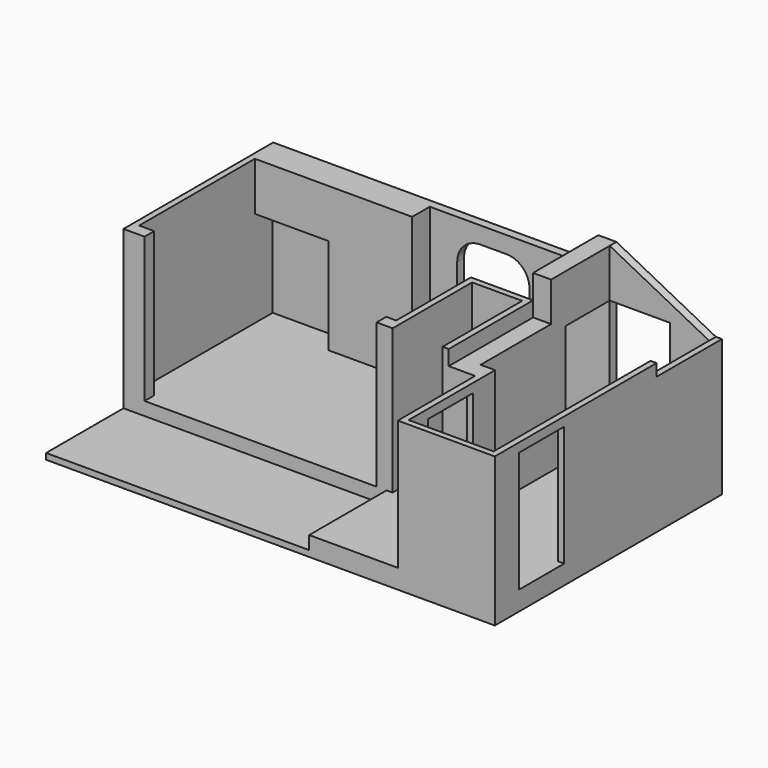
from build123d import *

# Parameters (mm, degrees)
F0_W      = 7445
F0_H      = 4710
F1_DEPTH  = 2720
F3_DEPTH  = 2400
F4_W      = 1220
F4_H      = 1595
F5_DEPTH  = 370
F6_W      = 1200
F6_H      = 2120
F6_W_2    = 1000
F6_H_2    = 2000
F7_DEPTH  = 140
F8_R      = 380
F9_W      = 830
F9_H      = 1650
F10_DEPTH = 2400
F11_W     = 940
F11_H     = 2000
F12_DEPTH = 100
F13_DEPTH = 1510
F14_W     = 915
F14_H     = 400
F15_DEPTH = 300
F17_DEPTH = 400
F18_W     = 3355
F18_H     = 250
F19_DEPTH = 2049
F21_DEPTH = 1355
F22_W     = 4365
F22_H     = 1605
F23_DEPTH = 220


with BuildPart() as f1:
    # F0 (on Top) → F1 (new body)
    with BuildSketch(Plane.XY):
        with Locations((2142.52072, 1425.795413)):
            Rectangle(F0_W, F0_H)
    extrude(amount=F1_DEPTH)

    # F2 (on face) → F3 (cut)
    with BuildSketch(Plane.XY.offset(2720)):
        Polygon((1130.02072, 3275.795413), (-1479.97928, 3275.795413), (-1479.97928, 875.795413), (-1229.97928, 875.795413), (-1229.97928, 675.795413), (2620.02072, 675.795413), (2620.02072, 875.795413), (2785.02072, 875.795413), (2785.02072, 2425.795413), (3815.02072, 2425.795413), (3815.02072, 2725.795413), (4115.02072, 2725.795413), (4115.02072, 963.588339), (4355.02072, 963.588339), (4355.02072, -829.204587), (5765.02072, -829.204587), (5765.02072, -429.204587), (5765.02072, 510.795413), (5765.02072, 3640.795413), (5115.02072, 3640.795413), (4115.02072, 3640.795413), (2785.02072, 3640.795413), (1585.02072, 3640.795413), (1130.02072, 3640.795413), align=None)
    extrude(amount=-F3_DEPTH, mode=Mode.SUBTRACT)

    # F4 (on face) → F5 (cut)
    with BuildSketch(Plane.XZ.offset(-3275.795413)):
        with Locations((-869.97928, 1117.5)):
            Rectangle(F4_W, F4_H)
    extrude(amount=-F5_DEPTH, mode=Mode.SUBTRACT)

    # F6 (on face) → F7 (cut, through all)
    with BuildSketch(Plane.XZ.offset(-3640.795413)):
        with Locations((2185.02072, 1380)):
            Rectangle(F6_W, F6_H)
        with Locations((4615.02072, 1320)):
            Rectangle(F6_W_2, F6_H_2)
    extrude(amount=-F7_DEPTH, mode=Mode.SUBTRACT)

    # F8
    f8_edges = [f1.edges().sort_by_distance(p)[0] for p in [
        (1585.02072, 3710.795413, 2440),
        (2785.02072, 3710.795413, 2440),
    ]]
    fillet(f8_edges, radius=F8_R)

    # F9 (on face) → F10 (cut)
    with BuildSketch(Plane.XY.offset(2720)):
        Polygon((2620.02072, 675.795413), (-1229.97928, 675.795413), (-1579.97928, 675.795413), (-1579.97928, -929.204587), (4255.02072, -929.204587), (4255.02072, 675.795413), (3715.02072, 675.795413), (2885.02072, 675.795413), align=None)
        with Locations((3300.02072, 1500.795413)):
            Rectangle(F9_W, F9_H)
    extrude(amount=-F10_DEPTH, mode=Mode.SUBTRACT)

    # F11 (on face) → F12 (cut, through all)
    with BuildSketch(Plane(origin=(5765.02072, 0, 0), x_dir=(0, -1, 0), z_dir=(-1, 0, 0))):
        with Locations((-40.795413, 1320)):
            Rectangle(F11_W, F11_H)
    extrude(amount=-F12_DEPTH, mode=Mode.SUBTRACT)

    # F11 (on face) → F13 (cut, through all)
    with BuildSketch(Plane(origin=(5765.02072, 0, 0), x_dir=(0, -1, 0), z_dir=(-1, 0, 0))):
        with Locations((-40.795413, 1320)):
            Rectangle(F11_W, F11_H)
    extrude(amount=F13_DEPTH, mode=Mode.SUBTRACT)

    # F14 (on face) → F15 (join, through all)
    with BuildSketch(Plane.YZ.offset(4115.02072)):
        with Locations((3183.295413, 2520)):
            Rectangle(F14_W, F14_H)
    extrude(amount=-F15_DEPTH)

    # F16 (on face) → F17 (join)
    with BuildSketch(Plane.XY.offset(2720)):
        Polygon((3815.02072, 2425.795413), (4115.02072, 2425.795413), (4115.02072, 3640.795413), (5765.02072, 3640.795413), (5765.02072, 2425.795413), (5865.02072, 2425.795413), (5865.02072, 3640.795413), (5865.02072, 3780.795413), (3815.02072, 3780.795413), (3815.02072, 3640.795413), align=None)
    extrude(amount=F17_DEPTH)

    # F18 (on face) → F19 (cut)
    with BuildSketch(Plane.YZ.offset(5865.02072)):
        with Locations((748.295413, 2595)):
            Rectangle(F18_W, F18_H)
    extrude(amount=-F19_DEPTH, mode=Mode.SUBTRACT)

    # F20 (on face) → F21 (cut, through all)
    with BuildSketch(Plane.XZ.offset(-2425.795413)):
        Polygon((5865.02072, 3120), (4115.02072, 3120), (5765.02072, 2270), (5865.02072, 2270), align=None)
    extrude(amount=-F21_DEPTH, mode=Mode.SUBTRACT)

    # F22 (on face) → F23 (cut)
    with BuildSketch(Plane.XY.offset(320)):
        with Locations((602.52072, -126.704587)):
            Rectangle(F22_W, F22_H)
    extrude(amount=-F23_DEPTH, mode=Mode.SUBTRACT)


solid = f1.part
